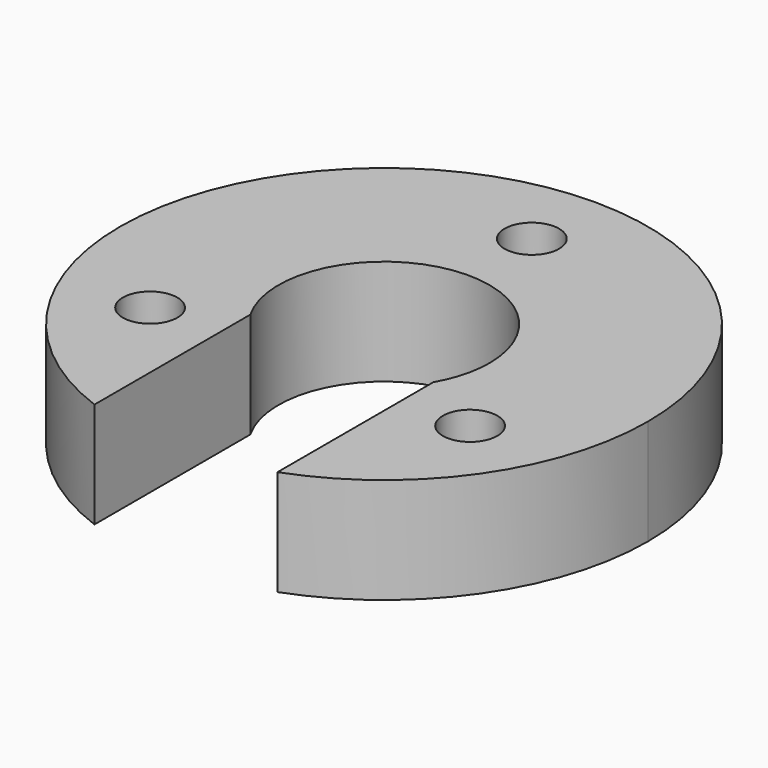
from build123d import *

# Parameters (mm, degrees)
F1_DEPTH = 6
F2_START = 3
F0_R     = 1.55
F2_DEPTH = 3


with BuildPart() as f1:
    # F0 (on Top) → F1 (new body)
    with BuildSketch(Plane.XY):
        with BuildLine():
            ThreePointArc((-5.2, -2.9933259094), (-1.5491933385, 5.7965506985), (6, 0))
            ThreePointArc((6, 0), (5.7965506985, -1.5491933385), (5.2, -2.9933259094))
            Line((5.2, -2.9933259094), (5.2, -14.0698258696))
            ThreePointArc((5.2, -14.0698258696), (12.3085336251, -8.5732140997), (15, 0))
            ThreePointArc((15, 0), (-8.5732140997, 12.3085336251), (-5.2, -14.0698258696))
            Line((-5.2, -14.0698258696), (-5.2, -2.9933259094))
        make_face()
        Polygon((-10.9840888713, -8.525), (-12.8749110029, -5.25), (-10.9840888713, -1.975), (-7.2024446081, -1.975), (-5.3116224765, -5.25), (-7.2024446081, -8.525), align=None, mode=Mode.SUBTRACT)
        Polygon((12.8749110029, -5.25), (10.9840888713, -8.525), (7.2024446081, -8.525), (5.3116224765, -5.25), (7.2024446081, -1.975), (10.9840888713, -1.975), align=None, mode=Mode.SUBTRACT)
        Polygon((3.7816442632, 10.5), (1.8908221316, 7.225), (-1.8908221316, 7.225), (-3.7816442632, 10.5), (-1.8908221316, 13.775), (1.8908221316, 13.775), align=None, mode=Mode.SUBTRACT)
    extrude(amount=F1_DEPTH)

    # F0 (on Top) → F2 (join)
    with BuildSketch(Plane.XY.offset(F2_START)):
        Polygon((7.2024446081, -8.525), (10.9840888713, -8.525), (12.8749110029, -5.25), (10.9840888713, -1.975), (7.2024446081, -1.975), (5.3116224765, -5.25), align=None)
        with Locations((9.0932667397, -5.25)):
            Circle(F0_R, mode=Mode.SUBTRACT)
        Polygon((-1.8908221316, 7.225), (1.8908221316, 7.225), (3.7816442632, 10.5), (1.8908221316, 13.775), (-1.8908221316, 13.775), (-3.7816442632, 10.5), align=None)
        with Locations((0, 10.5)):
            Circle(F0_R, mode=Mode.SUBTRACT)
        Polygon((-10.9840888713, -1.975), (-12.8749110029, -5.25), (-10.9840888713, -8.525), (-7.2024446081, -8.525), (-5.3116224765, -5.25), (-7.2024446081, -1.975), align=None)
        with Locations((-9.0932667397, -5.25)):
            Circle(F0_R, mode=Mode.SUBTRACT)
    extrude(amount=F2_DEPTH)


solid = f1.part
